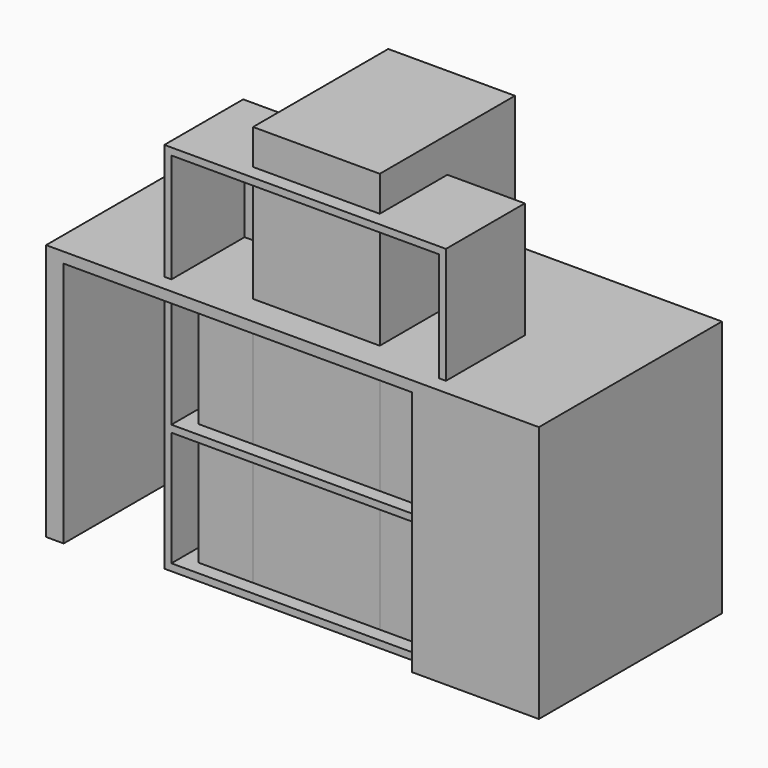
from build123d import *

# Parameters (mm, degrees)
F0_W      = 670
F0_H      = 480
F1_DEPTH  = 660
F2_W      = 360
F2_H      = 480
F3_DEPTH  = 1160
F4_W      = 360
F4_H      = 650
F5_DEPTH  = 700
F4_W_2    = 50
F6_W      = 1040
F6_H      = 650
F6_W_2    = 360
F7_DEPTH  = 30
F8_W      = 800
F8_H      = 1060
F8_W_2    = 760
F8_H_2    = 326.6666666667
F9_DEPTH  = 280
F10_DEPTH = 20
F13_T     = -3


with BuildPart() as f1:
    # F0 (on Top) → F1 (new body)
    with BuildSketch(Plane.XY):
        Rectangle(F0_W, F0_H)
        Rectangle(F0_W, F0_H)
    extrude(amount=F1_DEPTH)


with BuildPart() as f3:
    # F2 (on Top) → F3 (new body)
    with BuildSketch(Plane.XY):
        Rectangle(F2_W, F2_H)
    extrude(amount=F3_DEPTH)


with BuildPart() as f5:
    # F4 (on Top) → F5 (new body)
    with BuildSketch(Plane.XY):
        with Locations((520, 0)):
            Rectangle(F4_W, F4_H)
    extrude(amount=F5_DEPTH)



with BuildPart() as f5b:
    # F4 (on Top) → F5, piece 2 (new body)
    with BuildSketch(Plane.XY):
        with Locations((-675, 0)):
            Rectangle(F4_W_2, F4_H)
    extrude(amount=F5_DEPTH)


with BuildPart() as f5_1:
    add(f5.part)

    add(f5b.part)  # F7 merges F5b
    # F6 (on face) → F7 (join)
    with BuildSketch(Plane.XY.offset(700)):
        with Locations((-180, 0)):
            Rectangle(F6_W, F6_H)
        with Locations((520, 0)):
            Rectangle(F6_W_2, F6_H)
    extrude(amount=F7_DEPTH)


with BuildPart() as f9:
    # F8 (on Front) → F9 (new body)
    with BuildSketch(Plane.XZ):
        with Locations((0, 530)):
            Rectangle(F8_W, F8_H)
        with Locations((0, 183.3333333333)):
            Rectangle(F8_W_2, F8_H_2, mode=Mode.SUBTRACT)
        with Locations((0, 530)):
            Rectangle(F8_W_2, F8_H_2, mode=Mode.SUBTRACT)
        with Locations((0, 876.6666666667)):
            Rectangle(F8_W_2, F8_H_2, mode=Mode.SUBTRACT)
    extrude(amount=F9_DEPTH)

    # F8 (on Front) → F10 (join)
    with BuildSketch(Plane.XZ):
        with Locations((0, 530)):
            Rectangle(F8_W, F8_H)
        with Locations((0, 183.3333333333)):
            Rectangle(F8_W_2, F8_H_2, mode=Mode.SUBTRACT)
        with Locations((0, 530)):
            Rectangle(F8_W_2, F8_H_2, mode=Mode.SUBTRACT)
        with Locations((0, 876.6666666667)):
            Rectangle(F8_W_2, F8_H_2, mode=Mode.SUBTRACT)
        with Locations((0, 876.6666666667)):
            Rectangle(F8_W_2, F8_H_2)
        with Locations((0, 530)):
            Rectangle(F8_W_2, F8_H_2)
        with Locations((0, 183.3333333333)):
            Rectangle(F8_W_2, F8_H_2)
    extrude(amount=F10_DEPTH)


with BuildPart() as f12:
    # F11 (on Front) → F12 (revolve)
    with BuildSketch(Plane.XZ):
        Polygon((0, 0), (0, 300), (-152.8980942125, 300), (-100, 0), align=None)
    revolve(axis=Axis((0, 0, 195.8250552416), (0, 0, 1)))

    # F13
    f13_openings = [f12.faces().sort_by_distance(p)[0] for p in [
        (0, 0, 300),
    ]]
    offset(amount=F13_T, openings=f13_openings)


solid = Compound([f1.part, f3.part, f5_1.part, f9.part, f12.part])
